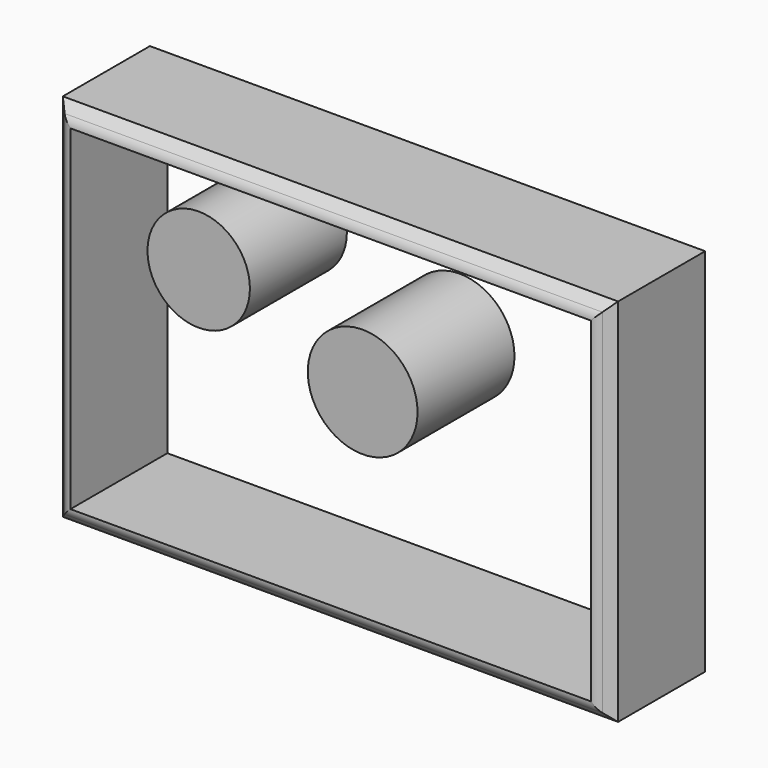
from build123d import *

# Parameters (mm, degrees)
F0_W     = 228.6
F0_H     = 152.4
F1_DEPTH = 49.88488
F2_SIZE  = 5.08
F3_R     = 5.08
F5_W     = 214.2315902063
F5_H     = 138.0315902063
F5_R     = 21.0814502393
F5_R_2   = 22.5972047165
F6_DEPTH = 221.82462


with BuildPart() as f1:
    # F0 (on Front) → F1 (new body)
    with BuildSketch(Plane.XZ):
        with Locations((-13.2004208863, -20.9346948183)):
            Rectangle(F0_W, F0_H)
    extrude(amount=F1_DEPTH)

    # F2
    f2_edges = [f1.edges().sort_by_distance(p)[0] for p in [
        (-13.200421, -49.88488, 55.265305),
        (101.099579, -49.88488, -20.934695),
        (-13.200421, -49.88488, -97.134695),
        (-127.500421, -49.88488, -20.934695),
    ]]
    chamfer(f2_edges, length=F2_SIZE)

    # F3
    f3_edges = [f1.edges().sort_by_distance(p)[0] for p in [
        (-13.200421, -49.88488, 50.185305),
        (-122.420421, -49.88488, -20.934695),
        (96.019579, -49.88488, -20.934695),
        (-13.200421, -49.88488, -92.054695),
    ]]
    fillet(f3_edges, radius=F3_R)

    # F5 (on face) → F6 (cut)
    with BuildSketch(Plane.XZ.offset(49.88488)):
        with Locations((-13.2004208863, -20.9346948183)):
            Rectangle(F5_W, F5_H)
        with Locations((-67.5006881356, 14.0376649797)):
            Circle(F5_R, mode=Mode.SUBTRACT)
        with Locations((0, -8.3551658317)):
            Circle(F5_R_2, mode=Mode.SUBTRACT)
    extrude(amount=-F6_DEPTH, mode=Mode.SUBTRACT)


solid = f1.part
